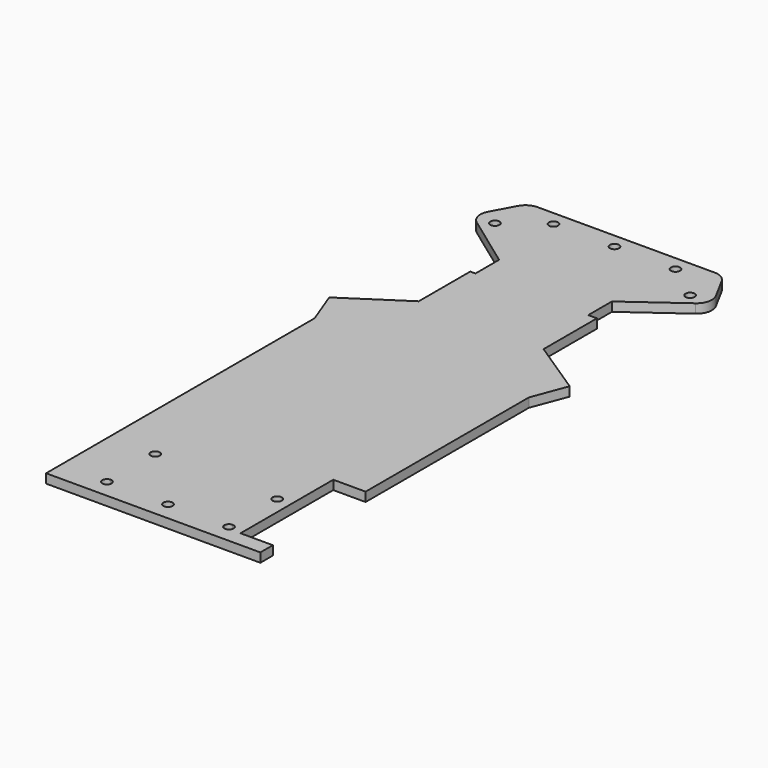
from build123d import *

# Parameters (mm, degrees)
F0_R     = 1.5
F1_DEPTH = 3
F2_W     = 41.530054
F2_H     = 123.730924
F3_DEPTH = 3
F4_R     = 5


with BuildPart() as f1:
    # F0 (on Top) → F1 (new body)
    with BuildSketch(Plane.XY):
        Polygon((32, 99.771135), (-32, 99.771135), (-39.425235, 86), (-18.486274, 70.8194), (-18.486274, 41.134663), (-39.425235, 27.363142), (-35.128705, 16.014801), (-35.128705, -94.051212), (35.128705, -94.051212), (35.128705, -88.935837), (24.525635, -88.935837), (24.525635, -50.918393), (35.128705, -50.918393), (35.128705, 16.014801), (39.425235, 27.363142), (18.486274, 41.134663), (18.486274, 70.8194), (39.425235, 86), align=None)
        with BuildLine():
            ThreePointArc((-20, -86.5), (-18.93934, -86.93934), (-18.5, -88))
            ThreePointArc((-18.5, -88), (-21.06066, -89.06066), (-20, -86.5))
        make_face(mode=Mode.SUBTRACT)
        with BuildLine():
            ThreePointArc((-18.5, -68.25), (-18.93934, -69.31066), (-20, -69.75))
            ThreePointArc((-20, -69.75), (-21.06066, -67.18934), (-18.5, -68.25))
        make_face(mode=Mode.SUBTRACT)
        with BuildLine():
            ThreePointArc((-1.5, -88), (0, -86.5), (1.5, -88))
            ThreePointArc((1.5, -88), (0, -89.5), (-1.5, -88))
        make_face(mode=Mode.SUBTRACT)
        with BuildLine():
            ThreePointArc((21.5, -88), (20, -89.5), (18.5, -88))
            ThreePointArc((18.5, -88), (18.93934, -86.93934), (20, -86.5))
            ThreePointArc((20, -86.5), (21.06066, -86.93934), (21.5, -88))
        make_face(mode=Mode.SUBTRACT)
        with BuildLine():
            ThreePointArc((21.5, -68.25), (21.06066, -69.31066), (20, -69.75))
            ThreePointArc((20, -69.75), (18.93934, -67.18934), (21.5, -68.25))
        make_face(mode=Mode.SUBTRACT)
        with Locations((-32, 86)):
            Circle(F0_R, mode=Mode.SUBTRACT)
        with Locations((-20, 95)):
            Circle(F0_R, mode=Mode.SUBTRACT)
        with Locations((0, 95)):
            Circle(F0_R, mode=Mode.SUBTRACT)
        with Locations((20, 95)):
            Circle(F0_R, mode=Mode.SUBTRACT)
        with Locations((32, 86)):
            Circle(F0_R, mode=Mode.SUBTRACT)
    extrude(amount=F1_DEPTH)

    # F2 (on Top) → F3 (join)
    with BuildSketch(Plane.XY):
        with Locations((0.572829, -0.729354)):
            Rectangle(F2_W, F2_H)
    extrude(amount=F3_DEPTH)

    # F4
    f4_edges = [f1.edges().sort_by_distance(p)[0] for p in [
        (39.425235, 86, 1.5),
        (32, 99.771135, 1.5),
        (-32, 99.771135, 1.5),
        (-39.425235, 86, 1.5),
    ]]
    fillet(f4_edges, radius=F4_R)


solid = f1.part
